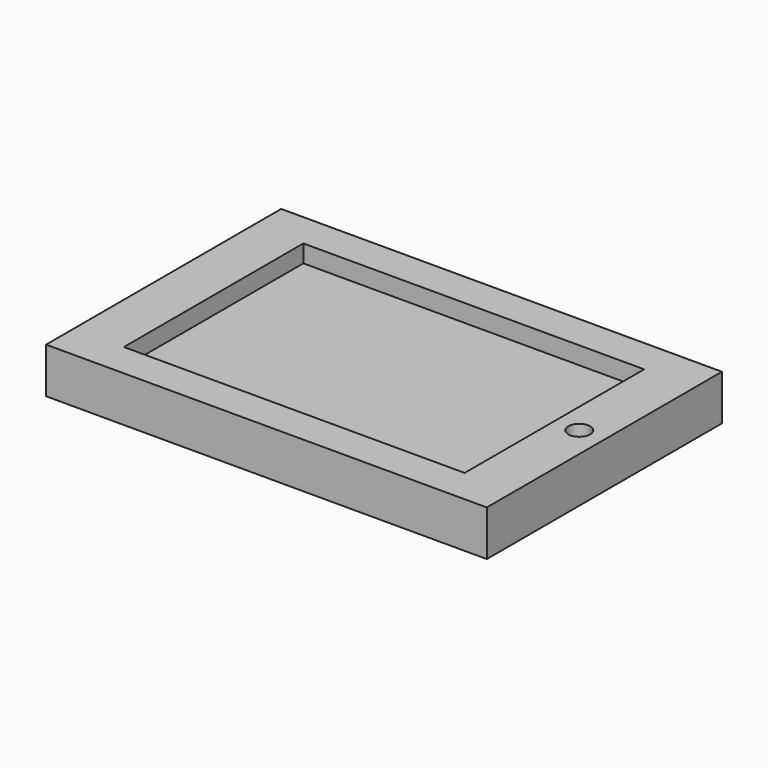
from build123d import *

# Parameters (mm, degrees)
F0_W     = 220.925912261
F0_H     = 147.3058909178
F1_DEPTH = 22.8
F2_W     = 170.8267480135
F2_H     = 112.4693089873
F3_DEPTH = 8.8
F5_D     = 11


with BuildPart() as f1:
    # F0 (on Top) → F1 (new body)
    with BuildSketch(Plane.XY):
        Rectangle(F0_W, F0_H)
    extrude(amount=F1_DEPTH)

    # F2 (on face) → F3 (cut)
    with BuildSketch(Plane.XY.offset(22.8)):
        Rectangle(F2_W, F2_H)
    extrude(amount=-F3_DEPTH, mode=Mode.SUBTRACT)

    # F5 (through all)
    with Locations(Plane.XY.offset(22.8)):
        with Locations((97.8735089302, 0)):
            Hole(F5_D / 2)


solid = f1.part
